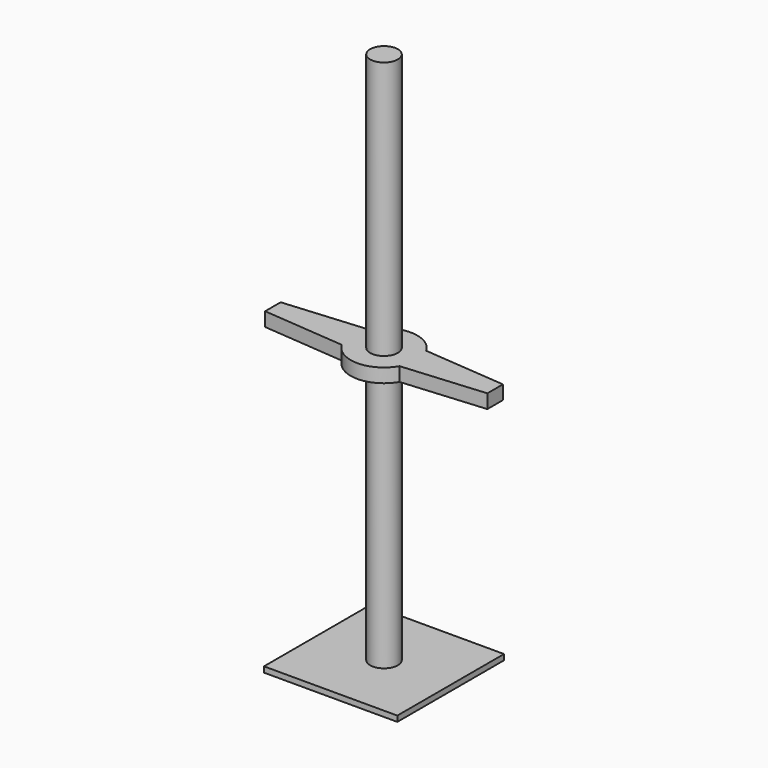
from build123d import *

# Parameters (mm, degrees)
F0_W     = 152.4
F0_H     = 152.4
F1_DEPTH = 6.3754
F2_R     = 15.875
F3_DEPTH = 609.6
F6_DEPTH = 15.875


with BuildPart() as f1:
    # F0 (on Top) → F1 (new body)
    with BuildSketch(Plane.XY):
        Rectangle(F0_W, F0_H)
    extrude(amount=F1_DEPTH)

    # F2 (on face) → F3 (join)
    with BuildSketch(Plane.XY.offset(6.3754)):
        Circle(F2_R)
    extrude(amount=F3_DEPTH)

    # F5 (on offset) → F6 (join)
    with BuildSketch(Plane.XY.offset(304.8)):
        with BuildLine():
            Line((127, 11.1125), (32.995568, 19.05))
            ThreePointArc((32.995568, 19.05), (0, 38.1), (-32.995568, 19.05))
            Line((-32.995568, 19.05), (-127, 11.1125))
            Line((-127, 11.1125), (-127, -11.1125))
            Line((-127, -11.1125), (-32.995568, -19.05))
            ThreePointArc((-32.995568, -19.05), (0, -38.1), (32.995568, -19.05))
            Line((32.995568, -19.05), (127, -11.1125))
            Line((127, -11.1125), (127, 11.1125))
        make_face()
    extrude(amount=F6_DEPTH)


solid = f1.part
